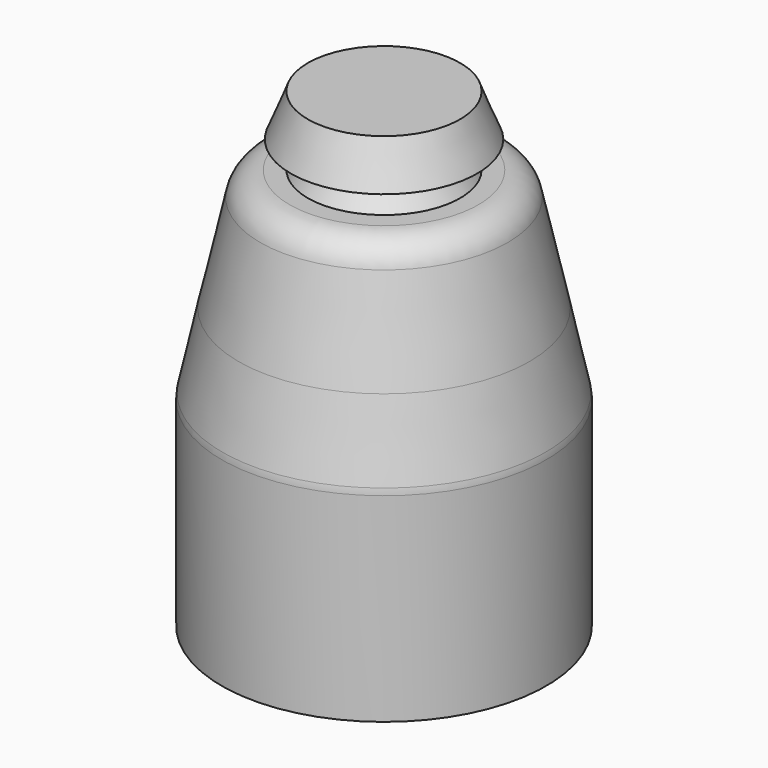
from build123d import *

# Parameters (mm, degrees)
F2_R = 5.08
F3_R = 5.08


with BuildPart() as f1:
    # F0 (on Front) → F1 (revolve)
    with BuildSketch(Plane.XZ):
        Polygon((0, -50.344978), (0, 28.951926), (-12.835828, 28.951926), (-15.688237, 21.82091), (-9.983422, 21.82091), (-12.835828, 17.257059), (-19.966844, 17.257059), (-24.508418, -3.180023), (-27.346618, -16.265895), (-27.346618, -50.344978), align=None)
    revolve(axis=Axis((0, 0, -10.696526), (0, 0, 1)))

    # F2
    f2_edges = [f1.edges().sort_by_distance(p)[0] for p in [
        (19.966844, 0, 17.257059),
        (24.508418, 0, -3.180023),
        (-22.237631, 0, 7.038518),
    ]]
    fillet(f2_edges, radius=F2_R)

    # F3
    f3_edges = [f1.edges().sort_by_distance(p)[0] for p in [
        (27.346618, 0, -16.265895),
    ]]
    fillet(f3_edges, radius=F3_R)


solid = f1.part
